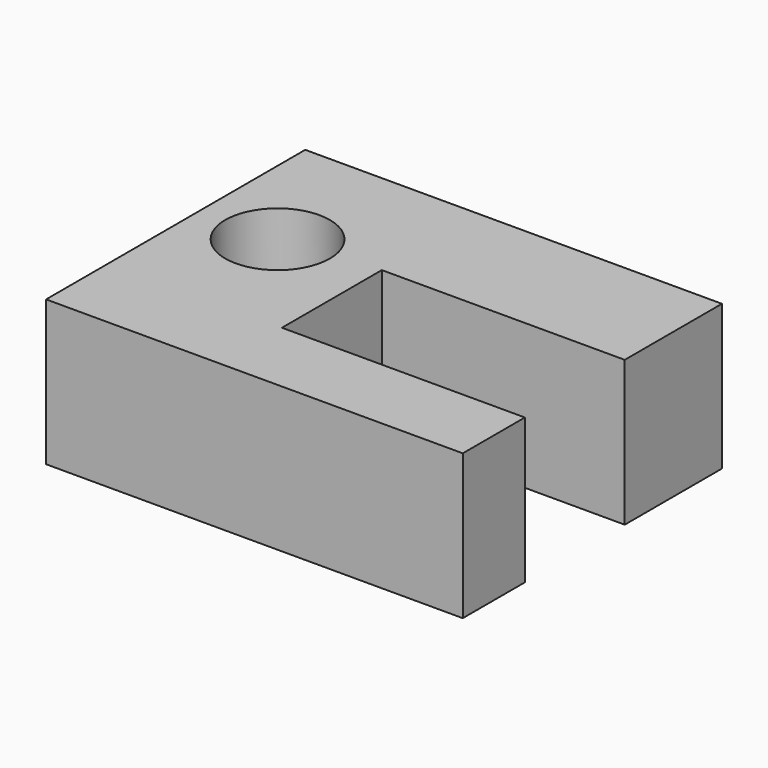
from build123d import *

# Parameters (mm, degrees)
F0_R     = 9.152436
F1_DEPTH = 25.4


with BuildPart() as f1:
    # F0 (on Top) → F1 (new body)
    with BuildSketch(Plane.XY):
        Polygon((21.552509, 31.885903), (-51.371735, 31.885903), (-51.371735, -24.800148), (21.552509, -24.800148), (21.552509, -11.219114), (-20.96203, -11.219114), (-20.96203, 10.628635), (21.552509, 10.628635), align=None)
        with Locations((-37.790701, 8.857195)):
            Circle(F0_R, mode=Mode.SUBTRACT)
    extrude(amount=-F1_DEPTH)


solid = f1.part
